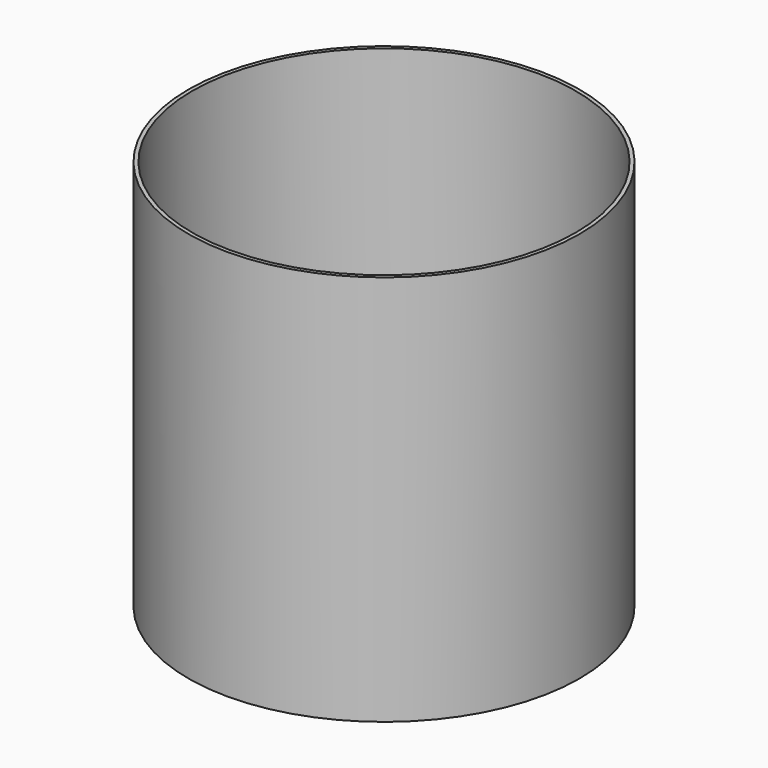
from build123d import *

# Parameters (mm, degrees)
F0_W     = 76.2
F0_H     = 152.4
F2_R     = 74.7
F3_DEPTH = 207.01


with BuildPart() as f1:
    # F0 (on Front) → F1 (revolve)
    with BuildSketch(Plane.XZ):
        with Locations((4.972886, -5.304594)):
            Rectangle(F0_W, F0_H)
    revolve(axis=Axis((43.072886, 0, -5.304594), (0, 0, 1)))

    # F2 (on face) → F3 (cut)
    with BuildSketch(Plane(origin=(0, 0, -81.504594), x_dir=(1, 0, 0), z_dir=(0, 0, -1))):
        with Locations((43.072886, 0)):
            Circle(F2_R)
    extrude(amount=-F3_DEPTH, mode=Mode.SUBTRACT)


solid = f1.part
